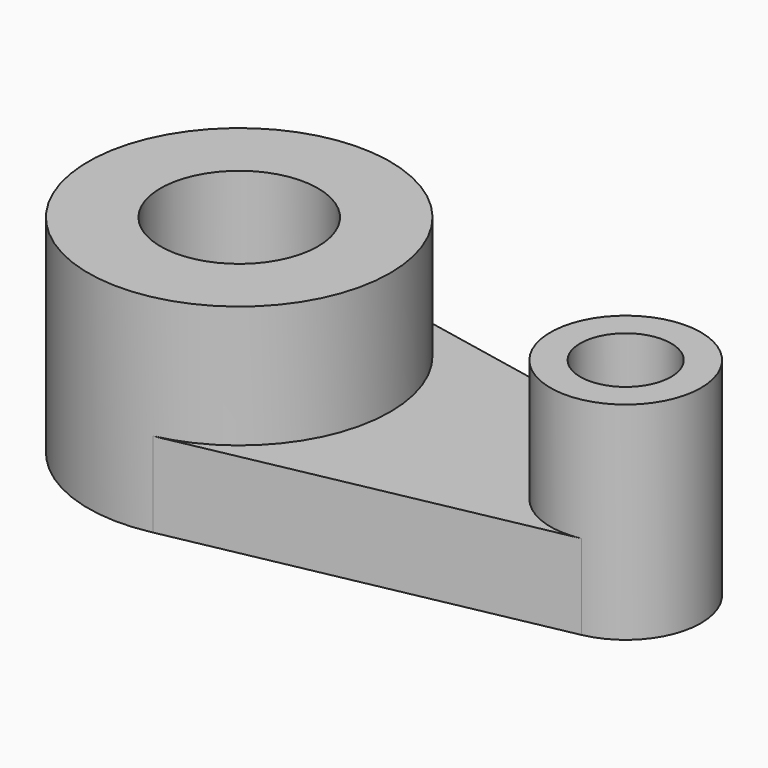
from build123d import *

# Parameters (mm, degrees)
F0_R     = 18.513208
F0_R_2   = 9.229277
F3_DEPTH = 25.4
F2_R     = 5.567315
F2_R_2   = 9.654222
F4_DEPTH = 228.6
F5_DEPTH = 10.414


with BuildPart() as f3:
    # F0 (on Top) → F3 (new body)
    with BuildSketch(Plane.XY):
        with Locations((-23.835732, 0)):
            Circle(F0_R)
        with Locations((23.556953, 0)):
            Circle(F0_R_2)
    extrude(amount=F3_DEPTH)

    # F2 (on face) → F4 (cut)
    with BuildSketch(Plane.XY):
        with Locations((23.556953, 0)):
            Circle(F2_R)
        with Locations((-23.835732, 0)):
            Circle(F2_R_2)
    extrude(amount=F4_DEPTH, mode=Mode.SUBTRACT)


with BuildPart() as f5:
    # F1 (on face) → F5 (new body)
    with BuildSketch(Plane.XY):
        with BuildLine():
            ThreePointArc((-5.322523, 0), (-9.427787, -11.625405), (-19.922913, -18.094992))
            Line((-19.922913, -18.094992), (25.364459, -9.050551))
            ThreePointArc((25.364459, -9.050551), (14.340437, -0.485166), (24.404244, 9.190302))
            Line((24.404244, 9.190302), (-20.188738, 18.150436))
            ThreePointArc((-20.188738, 18.150436), (-9.513434, 11.730757), (-5.322523, 0))
        make_face()
    extrude(amount=F5_DEPTH)


solid = Compound([f3.part, f5.part])
